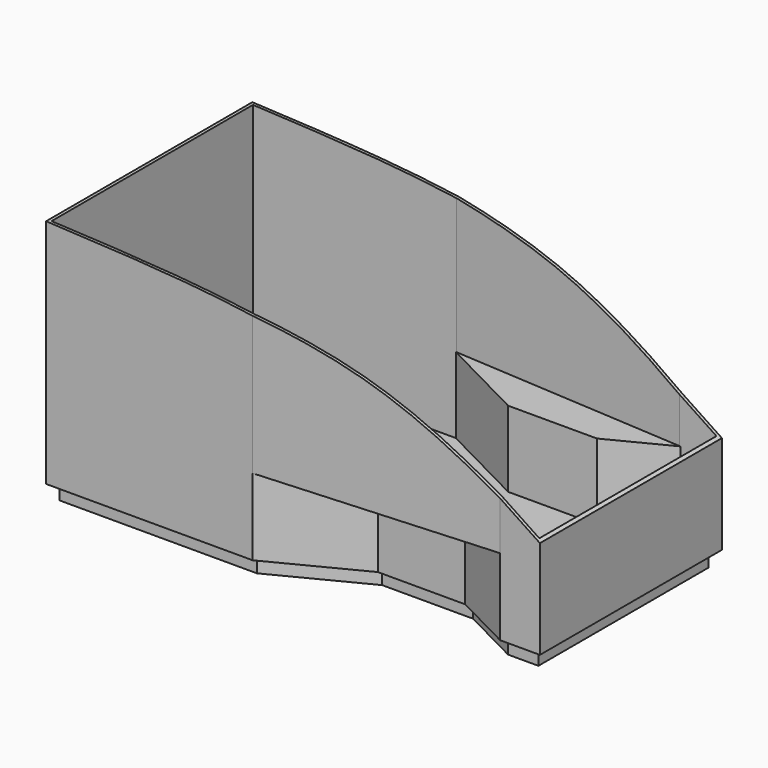
from build123d import *

# Parameters (mm, degrees)
F1_DEPTH  = 100
F3_DEPTH  = 25
F5_DEPTH  = 500
F7_DEPTH  = 20
F9_DEPTH  = 1000
F11_DEPTH = 2000


with BuildPart() as f1:
    # F0 (on Top) → F1 (new body)
    with BuildSketch(Plane.XY):
        Polygon((-476.9575450942, 1539.1407966614), (-476.9575450942, 1439.1407966614), (-476.9575450942, 39.1407966614), (-476.9575450942, -60.8592033386), (823.0424549058, -60.8592033386), (1408.6128637736, 239.1407966614), (1708.6128637736, 239.1407966614), (2008.6128637736, 239.1407966614), (2398.9931363521, 39.1407966614), (2598.9931363521, 39.1407966614), (2598.9931363521, 139.1407966614), (2598.9931363521, 739.1407966614), (2598.9931363521, 1339.1407966614), (2598.9931363521, 1439.1407966614), (2398.9931363521, 1439.1407966614), (2008.6128637736, 1239.1407966614), (1708.6128637736, 1239.1407966614), (1408.6128637736, 1239.1407966614), (823.0424549058, 1539.1407966614), align=None)
        Polygon((-376.9575450942, 97.4785810701), (-376.9575450942, 1380.8030122527), (722.9508969124, 739.1407966614), align=None, mode=Mode.SUBTRACT)
        Polygon((823.0424549058, 39.1407966601), (-305.5420533788, 39.1407966612), (808.6586427702, 689.1407966614), (1408.6128637735, 339.1407966614), align=None, mode=Mode.SUBTRACT)
        Polygon((823.0424549058, 1439.1407966614), (1408.6128637735, 1139.1407966615), (808.6586427701, 789.1407966614), (-305.542053379, 1439.1407966614), align=None, mode=Mode.SUBTRACT)
        Polygon((894.3663886278, 739.1407966614), (1408.6128637736, 1039.1407966615), (1408.6128637738, 739.1407966615), (1408.6128637736, 439.1407966614), align=None, mode=Mode.SUBTRACT)
        Polygon((1908.6128637736, 1139.1407966614), (1908.6128637736, 739.1407966614), (1908.6128637736, 339.1407966614), (1708.6128637736, 339.1407966614), (1508.6128637736, 339.1407966614), (1508.6128637736, 739.1407966614), (1508.6128637735, 1139.1407966615), (1708.6128637735, 1139.1407966615), align=None, mode=Mode.SUBTRACT)
        Polygon((2008.6128637736, 339.1407966614), (2008.6128637736, 739.1407966614), (2008.6128637736, 1139.1407966614), (2398.9931363521, 1339.1407966614), (2498.9931363521, 1339.1407966614), (2498.9931363521, 739.1407966614), (2498.9931363521, 139.1407966614), (2398.9931363521, 139.1407966614), align=None, mode=Mode.SUBTRACT)
    extrude(amount=-F1_DEPTH)

    # F2 (on face) → F3 (join)
    with BuildSketch(Plane.XY):
        Polygon((835.1050236414, -110.8592033386), (1420.6754325092, 189.1407966614), (1708.6128637736, 189.1407966614), (1996.550295038, 189.1407966614), (2386.9305676165, -10.8592033386), (2648.9931363521, -10.8592033386), (2648.9931363521, 139.1407966614), (2648.9931363521, 739.1407966614), (2648.9931363521, 1339.1407966614), (2648.9931363521, 1489.1407966614), (2386.9305676165, 1489.1407966614), (1996.550295038, 1289.1407966614), (1708.6128637736, 1289.1407966614), (1420.6754325092, 1289.1407966614), (835.1050236414, 1589.1407966614), (-526.9575450942, 1589.1407966614), (-526.9575450942, 1439.1407966614), (-526.9575450942, 39.1407966614), (-526.9575450942, -110.8592033386), align=None)
        Polygon((-476.9575450942, 1439.1407966614), (-476.9575450942, 1539.1407966614), (823.0424549058, 1539.1407966614), (1408.6128637736, 1239.1407966614), (1708.6128637736, 1239.1407966614), (2008.6128637736, 1239.1407966614), (2398.9931363521, 1439.1407966614), (2598.9931363521, 1439.1407966614), (2598.9931363521, 1339.1407966614), (2598.9931363521, 739.1407966614), (2598.9931363521, 139.1407966614), (2598.9931363521, 39.1407966614), (2398.9931363521, 39.1407966614), (2008.6128637736, 239.1407966614), (1708.6128637736, 239.1407966614), (1408.6128637736, 239.1407966614), (823.0424549058, -60.8592033386), (-476.9575450942, -60.8592033386), (-476.9575450942, 39.1407966614), align=None, mode=Mode.SUBTRACT)
        Polygon((823.0424549058, 1539.1407966614), (-476.9575450942, 1539.1407966614), (-476.9575450942, 1439.1407966614), (-476.9575450942, 39.1407966614), (-476.9575450942, -60.8592033386), (823.0424549058, -60.8592033386), (1408.6128637736, 239.1407966614), (1708.6128637736, 239.1407966614), (2008.6128637736, 239.1407966614), (2398.9931363521, 39.1407966614), (2598.9931363521, 39.1407966614), (2598.9931363521, 139.1407966614), (2598.9931363521, 739.1407966614), (2598.9931363521, 1339.1407966614), (2598.9931363521, 1439.1407966614), (2398.9931363521, 1439.1407966614), (2008.6128637736, 1239.1407966614), (1708.6128637736, 1239.1407966614), (1408.6128637736, 1239.1407966614), align=None)
        Polygon((722.9508969124, 739.1407966614), (-376.9575450942, 97.4785810701), (-376.9575450942, 1380.8030122527), align=None, mode=Mode.SUBTRACT)
        Polygon((1408.6128637735, 339.1407966614), (823.0424549058, 39.1407966601), (-305.5420533788, 39.1407966612), (808.6586427702, 689.1407966614), align=None, mode=Mode.SUBTRACT)
        Polygon((-305.542053379, 1439.1407966614), (823.0424549058, 1439.1407966614), (1408.6128637735, 1139.1407966615), (808.6586427701, 789.1407966614), align=None, mode=Mode.SUBTRACT)
        Polygon((1408.6128637736, 439.1407966614), (894.3663886278, 739.1407966614), (1408.6128637736, 1039.1407966615), (1408.6128637738, 739.1407966615), align=None, mode=Mode.SUBTRACT)
        Polygon((1708.6128637736, 1139.1407966614), (1908.6128637736, 1139.1407966614), (1908.6128637736, 739.1407966614), (1908.6128637736, 339.1407966614), (1708.6128637736, 339.1407966614), (1508.6128637736, 339.1407966614), (1508.6128637736, 739.1407966614), (1508.6128637735, 1139.1407966615), align=None, mode=Mode.SUBTRACT)
        Polygon((2008.6128637736, 339.1407966614), (2008.6128637736, 739.1407966614), (2008.6128637736, 1139.1407966614), (2398.9931363521, 1339.1407966614), (2498.9931363521, 1339.1407966614), (2498.9931363521, 739.1407966614), (2498.9931363521, 139.1407966614), (2398.9931363521, 139.1407966614), align=None, mode=Mode.SUBTRACT)
        Polygon((1908.6128637736, 739.1407966614), (1908.6128637736, 1139.1407966614), (1708.6128637736, 1139.1407966614), (1508.6128637735, 1139.1407966615), (1508.6128637735, 739.1407966615), (1508.6128637736, 339.1407966614), (1708.6128637735, 339.1407966614), (1908.6128637736, 339.1407966614), align=None)
        Polygon((1408.6128637736, 1039.1407966615), (894.3663886278, 739.1407966614), (1408.6128637736, 439.1407966614), (1408.6128637736, 739.1407966614), align=None)
        Polygon((-305.5420533788, 39.1407966612), (823.0424549058, 39.1407966601), (1408.6128637735, 339.1407966614), (808.6586427702, 689.1407966614), align=None)
        Polygon((1408.6128637735, 1139.1407966615), (823.0424549058, 1439.1407966614), (-305.542053379, 1439.1407966614), (808.6586427701, 789.1407966614), align=None)
        Polygon((-376.9575450942, 1380.8030122527), (-376.9575450942, 97.4785810701), (722.9508969124, 739.1407966614), align=None)
        Polygon((2008.6128637736, 1139.1407966614), (2008.6128637736, 739.1407966614), (2008.6128637736, 339.1407966614), (2398.9931363521, 139.1407966614), (2498.9931363521, 139.1407966614), (2498.9931363521, 739.1407966614), (2498.9931363521, 1339.1407966614), (2398.9931363521, 1339.1407966614), align=None)
    extrude(amount=F3_DEPTH)

    # F4 (on face) → F5 (join)
    with BuildSketch(Plane.XY.offset(25)):
        Polygon((-526.9575450942, 1589.1407966614), (-526.9575450942, -110.8592033386), (835.1050236414, -110.8592033386), (1420.6754325092, 189.1407966614), (1996.550295038, 189.1407966614), (2386.9305676165, -10.8592033386), (2648.9931363521, -10.8592033386), (2648.9931363521, 1489.1407966614), (2386.9305676165, 1489.1407966614), (1996.550295038, 1289.1407966614), (1420.6754325092, 1289.1407966614), (835.1050236414, 1589.1407966614), align=None)
        Polygon((2628.9931363521, 9.1407966614), (2391.7555951107, 9.1407966614), (2001.3753225322, 209.1407966614), (1415.850405015, 209.1407966614), (830.2799961471, -90.8592033386), (-506.9575450942, -90.8592033386), (-506.9575450942, 1569.1407966614), (830.2799961471, 1569.1407966614), (1415.8504050149, 1269.1407966614), (2001.3753225322, 1269.1407966614), (2391.7555951107, 1469.1407966614), (2628.9931363521, 1469.1407966614), align=None, mode=Mode.SUBTRACT)
    extrude(amount=F5_DEPTH)

    # F6 (on face) → F7 (join)
    with BuildSketch(Plane.XY.offset(525)):
        Polygon((1420.6754325092, 189.1407966614), (835.1050236414, -110.8592033386), (2386.9305676165, -10.8592033386), (1996.550295038, 189.1407966614), align=None)
        Polygon((2386.9305676165, 1489.1407966614), (835.1050236414, 1589.1407966614), (1420.6754325092, 1289.1407966614), (1996.550295038, 1289.1407966614), align=None)
    extrude(amount=-F7_DEPTH)

    # F8 (on face) → F9 (join)
    with BuildSketch(Plane.XY.offset(525)):
        Polygon((2386.9305676165, 1489.1407966614), (835.1050236414, 1589.1407966614), (-526.9575450942, 1589.1407966614), (-526.9575450942, -110.8592033386), (835.1050236414, -110.8592033386), (2386.9305676165, -10.8592033386), (2648.9931363521, -10.8592033386), (2648.9931363521, 1489.1407966614), align=None)
        Polygon((2391.7555951107, 1469.1407966614), (2628.9931363521, 1469.1407966614), (2628.9931363521, 9.1407966614), (2391.7555951107, 9.1407966614), (2386.2868328759, 9.1407966614), (834.4612889008, -90.8592033386), (830.2799961471, -90.8592033386), (-506.9575450942, -90.8592033386), (-506.9575450942, 1569.1407966614), (830.2799961471, 1569.1407966614), (834.4612889008, 1569.1407966614), (2386.2868328759, 1469.1407966614), align=None, mode=Mode.SUBTRACT)
    extrude(amount=F9_DEPTH)

    # F10 (on face) → F11 (cut)
    with BuildSketch(Plane.XZ.offset(110.8592033386)):
        with BuildLine():
            Line((835.1050236414, 1525), (-526.9575450942, 1525))
            add(Edge.make_bspline(
                [(-526.9575450942, 1525), (-58.7869396097, 1503.0453230908), (409.4284087165, 1481.1639376683), (835.1050236415, 1418.8568069486)],
                knots=[0, 0, 0, 0, 0.3597014322, 0.3597014322, 0.3597014322, 0.3597014322], degree=3))
            Line((835.1050236414, 1418.8568069486), (835.1050236414, 1525))
        make_face()
        with BuildLine():
            Line((835.1050236414, 1525), (835.1050236414, 1418.8568069486))
            add(Edge.make_bspline(
                [(835.1050236415, 1418.8568069486), (1061.8809895187, 1385.6631588726), (1779.2803071525, 1236.4144865114), (2290.0021320838, 890.7024812782), (2648.9931363521, 648.6338376999)],
                knots=[0.3597014322, 0.3597014322, 0.3597014322, 0.3597014322, 0.5513296234, 1, 1, 1, 1], degree=3))
            Line((2648.9931363521, 648.6338376999), (2648.9931363521, 1525))
            Line((2648.9931363521, 1525), (835.1050236414, 1525))
        make_face()
    extrude(amount=-F11_DEPTH, mode=Mode.SUBTRACT)


solid = f1.part
